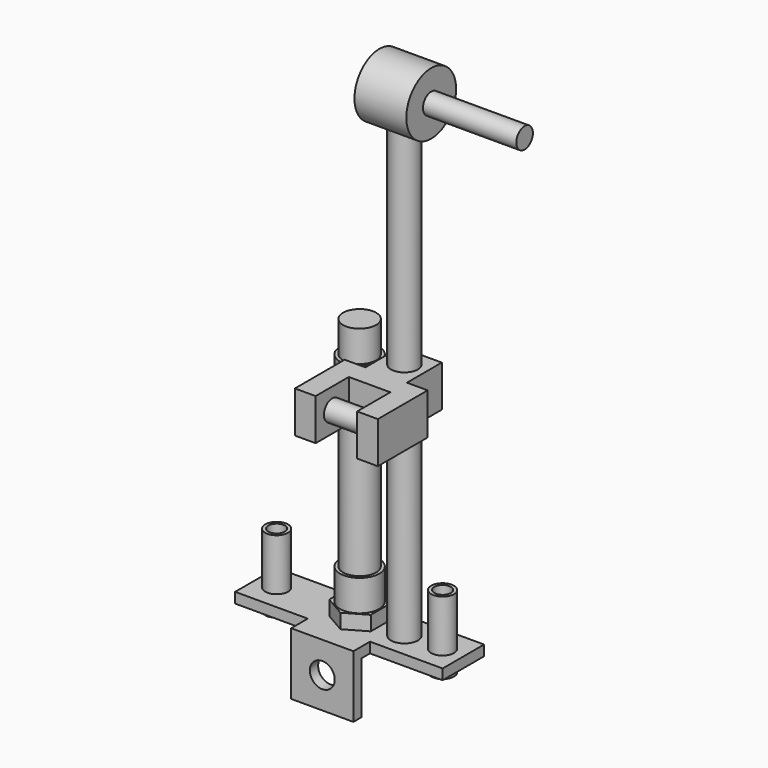
from build123d import *

# Parameters (mm, degrees)
F0_R      = 4
F1_DEPTH  = 5
F2_R      = 5.5
F2_R_2    = 4
F3_DEPTH  = 25
F4_DEPTH  = 10
F5_W      = 30
F5_H      = 5
F6_DEPTH  = 25
F7_R      = 4
F8_DEPTH  = 7
F9_R      = 9.5
F9_R_2    = 4
F10_DEPTH = 15
F11_R     = 8
F11_R_2   = 4
F12_DEPTH = 75
F13_R     = 9.5
F14_DEPTH = 15
F15_R     = 8
F16_DEPTH = 15
F17_R     = 6.5
F18_DEPTH = 240
F20_W     = 20
F20_H     = 21
F21_DEPTH = 10
F23_R     = 15
F24_DEPTH = 12.5
F25_R     = 5
F26_DEPTH = 70
F27_R     = 6
F28_DEPTH = 25
F30_W     = 40
F30_H     = 20
F31_DEPTH = 10
F32_W     = 10
F32_H     = 20
F33_DEPTH = 20
F34_R     = 5
F35_DEPTH = 20


with BuildPart() as f1:
    # F0 (on Top) → F1 (new body)
    with BuildSketch(Plane.XY):
        Polygon((72.578296, 13.000988), (-27.421704, 13.000988), (-27.421704, -11.999012), (7.578296, -11.999012), (7.578296, -21.999012), (37.578296, -21.999012), (37.578296, -11.999012), (72.578296, -11.999012), align=None)
        with Locations((-17.421704, 0.500988)):
            Circle(F0_R, mode=Mode.SUBTRACT)
        with Locations((22.578296, 0.500988)):
            Circle(F0_R, mode=Mode.SUBTRACT)
        with Locations((62.578296, 0.500988)):
            Circle(F0_R, mode=Mode.SUBTRACT)
    extrude(amount=F1_DEPTH)

    # F2 (on face) → F3 (join)
    with BuildSketch(Plane.XY.offset(5)):
        with Locations((-17.421704, 0.500988)):
            Circle(F2_R)
        with Locations((-17.421704, 0.500988)):
            Circle(F2_R_2, mode=Mode.SUBTRACT)
        with Locations((62.578296, 0.500988)):
            Circle(F2_R)
        with Locations((62.578296, 0.500988)):
            Circle(F2_R_2, mode=Mode.SUBTRACT)
    extrude(amount=F3_DEPTH)

    # F2 (on face) → F4 (join)
    with BuildSketch(Plane.XY.offset(5)):
        with Locations((-17.421704, 0.500988)):
            Circle(F2_R)
        with Locations((-17.421704, 0.500988)):
            Circle(F2_R_2, mode=Mode.SUBTRACT)
        with Locations((62.578296, 0.500988)):
            Circle(F2_R)
        with Locations((62.578296, 0.500988)):
            Circle(F2_R_2, mode=Mode.SUBTRACT)
    extrude(amount=-F4_DEPTH)

    # F5 (on face) → F6 (join)
    with BuildSketch(Plane(origin=(0, 0, 0), x_dir=(1, 0, 0), z_dir=(0, 0, -1))):
        with Locations((22.578296, 19.499012)):
            Rectangle(F5_W, F5_H)
    extrude(amount=F6_DEPTH)

    # F7 (on face) → F8 (join)
    with BuildSketch(Plane.XY.offset(5)):
        Polygon((12.578296, 6.274491), (12.578296, -5.272514), (22.578296, -11.046017), (32.578296, -5.272514), (32.578296, 6.274491), (22.578296, 12.047994), align=None)
        with Locations((22.578296, 0.500988)):
            Circle(F7_R, mode=Mode.SUBTRACT)
    extrude(amount=F8_DEPTH)

    # F9 (on face) → F10 (join)
    with BuildSketch(Plane.XY.offset(12)):
        with Locations((22.578296, 0.500988)):
            Circle(F9_R)
        with Locations((22.578296, 0.500988)):
            Circle(F9_R_2, mode=Mode.SUBTRACT)
    extrude(amount=F10_DEPTH)

    # F11 (on face) → F12 (join)
    with BuildSketch(Plane.XY.offset(27)):
        with Locations((22.578296, 0.500988)):
            Circle(F11_R)
        with Locations((22.578296, 0.500988)):
            Circle(F11_R_2, mode=Mode.SUBTRACT)
    extrude(amount=F12_DEPTH)

    # F13 (on face) → F14 (join)
    with BuildSketch(Plane.XY.offset(102)):
        with Locations((22.578296, 0.500988)):
            Circle(F13_R)
    extrude(amount=F14_DEPTH)

    # F15 (on face) → F16 (join)
    with BuildSketch(Plane.XY.offset(117)):
        with Locations((22.578296, 0.500988)):
            Circle(F15_R)
    extrude(amount=F16_DEPTH)

    # F17 (on face) → F18 (join)
    with BuildSketch(Plane.XY.offset(5)):
        with Locations((44.578296, 0)):
            Circle(F17_R)
    extrude(amount=F18_DEPTH)

    # F20 (on offset) → F21 (join, symmetric)
    with BuildSketch(Plane.XY.offset(110)):
        with Locations((44.578296, -0.499012)):
            Rectangle(F20_W, F20_H)
    extrude(amount=F21_DEPTH, both=True)

    # F23 (on offset) → F24 (join, symmetric)
    with BuildSketch(Plane.YZ.offset(45)):
        with Locations((0, 235)):
            Circle(F23_R)
    extrude(amount=F24_DEPTH, both=True)

    # F25 (on face) → F26 (join)
    with BuildSketch(Plane(origin=(32.5, 0, 0), x_dir=(0, -1, 0), z_dir=(-1, 0, 0))):
        with Locations((0, 235)):
            Circle(F25_R)
    extrude(amount=-F26_DEPTH)

    # F27 (on face) → F28 (cut)
    with BuildSketch(Plane.XZ.offset(21.999012)):
        with Locations((22.578296, -10)):
            Circle(F27_R)
    extrude(amount=-F28_DEPTH, mode=Mode.SUBTRACT)

    # F30 (on face) → F31 (join)
    with BuildSketch(Plane.XZ.offset(10.999012)):
        with Locations((44.578296, 110)):
            Rectangle(F30_W, F30_H)
    extrude(amount=F31_DEPTH)

    # F32 (on face) → F33 (join)
    with BuildSketch(Plane.XZ.offset(20.999012)):
        with Locations((59.578296, 110)):
            Rectangle(F32_W, F32_H)
        with Locations((29.578296, 110)):
            Rectangle(F32_W, F32_H)
    extrude(amount=F33_DEPTH)

    # F34 (on face) → F35 (join, through all)
    with BuildSketch(Plane(origin=(54.578296, 0, 0), x_dir=(0, -1, 0), z_dir=(-1, 0, 0))):
        with Locations((30.999012, 110)):
            Circle(F34_R)
        with Locations((30.999012, 110)):
            Circle(F34_R)
    extrude(amount=F35_DEPTH)


solid = f1.part
